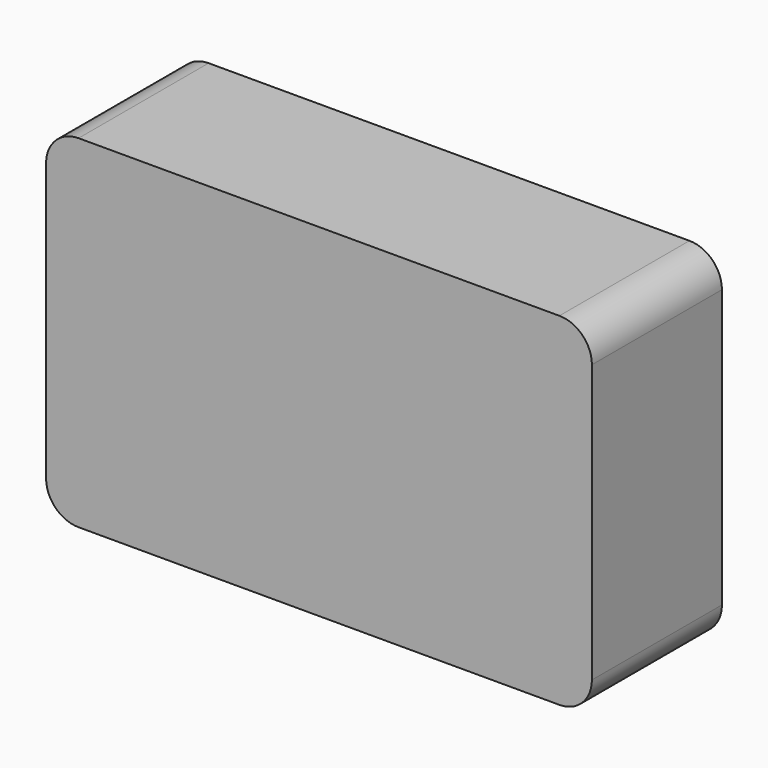
from build123d import *

# Parameters (mm, degrees)
F0_W     = 85.303154
F0_H     = 53.529274
F1_DEPTH = 25.4
F2_R     = 5.08
F3_R     = 5.08
F4_W     = 50.8
F4_H     = 50.8
F5_ANGLE = 30


with BuildPart() as f1:
    # F0 (on Front) → F1 (new body)
    with BuildSketch(Plane.XZ):
        with Locations((-11.808498, 7.342195)):
            Rectangle(F0_W, F0_H)
    extrude(amount=-F1_DEPTH)

    # F2
    f2_edges = [f1.edges().sort_by_distance(p)[0] for p in [
        (30.843079, 12.7, 34.106832),
        (30.843079, 12.7, -19.422442),
    ]]
    fillet(f2_edges, radius=F2_R)

    # F3
    f3_edges = [f1.edges().sort_by_distance(p)[0] for p in [
        (-54.460075, 12.7, 34.106832),
        (-54.460075, 12.7, -19.422442),
    ]]
    fillet(f3_edges, radius=F3_R)


with BuildPart() as f5:
    # F4 (on Top) → F5 (revolve, symmetric)
    with BuildSketch(Plane.XY) as f5_sk:
        with Locations((-87.164474, -30.215205)):
            Rectangle(F4_W, F4_H)
    revolve(axis=Axis((-61.764474, -30.215205, 0), (0, 1, 0)), revolution_arc=F5_ANGLE / 2)
    revolve(f5_sk.sketch, axis=Axis((-61.764474, -30.215205, 0), (0, -1, 0)), revolution_arc=F5_ANGLE / 2)


solid = f1.part
